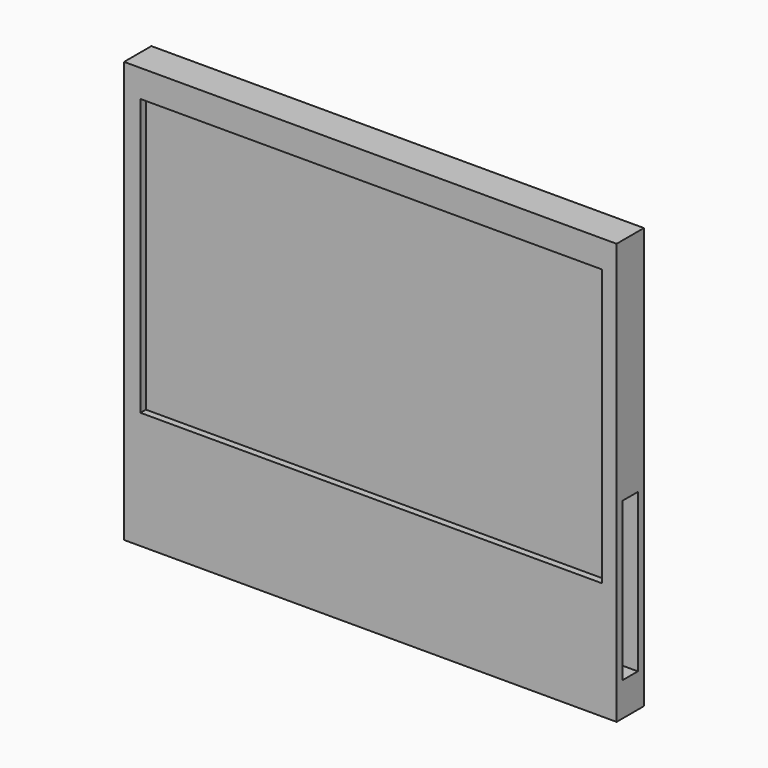
from build123d import *

# Parameters (mm, degrees)
F0_W      = 72.093084
F0_H      = 61.611962
F1_DEPTH  = 5
F3_W      = 67.553579
F3_H      = 40.44101
F4_DEPTH  = 1
F5_W      = 60.304923
F5_H      = 36.530194
F6_DEPTH  = 2.5
F7_W      = 34.983285
F7_H      = 9.354526
F8_DEPTH  = 5.1
F9_W      = 2.782536
F9_H      = 23.125896
F10_DEPTH = 4.3


with BuildPart() as f1:
    # F0 (on Front) → F1 (new body)
    with BuildSketch(Plane.XZ):
        with Locations((36.046542, 30.805981)):
            Rectangle(F0_W, F0_H)
    extrude(amount=F1_DEPTH)

    # F3 (on face) → F4 (cut)
    with BuildSketch(Plane.XZ.offset(5)):
        with Locations((36.171169, 37.390875)):
            Rectangle(F3_W, F3_H)
    extrude(amount=-F4_DEPTH, mode=Mode.SUBTRACT)

    # F5 (on face) → F6 (join)
    with BuildSketch(Plane(origin=(0, 0, 0), x_dir=(-1, 0, 0), z_dir=(0, 1, 0))):
        with Locations((-34.995176, 29.835877)):
            Rectangle(F5_W, F5_H)
    extrude(amount=F6_DEPTH)

    # F7 (on face) → F8 (cut)
    with BuildSketch(Plane(origin=(0, 2.5, 0), x_dir=(-1, 0, 0), z_dir=(0, 1, 0))):
        with Locations((-34.057569, 28.984568)):
            Rectangle(F7_W, F7_H)
    extrude(amount=-F8_DEPTH, mode=Mode.SUBTRACT)

    # F9 (on face) → F10 (cut)
    with BuildSketch(Plane.YZ.offset(72.093084)):
        with Locations((-2.496595, 16.498187)):
            Rectangle(F9_W, F9_H)
    extrude(amount=-F10_DEPTH, mode=Mode.SUBTRACT)


solid = f1.part
